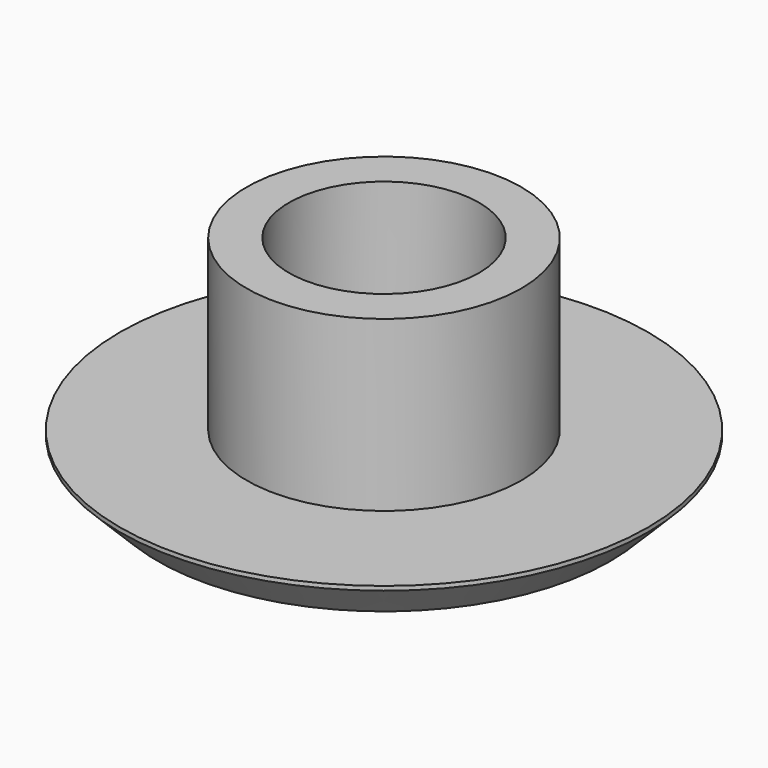
from build123d import *

# Parameters (mm, degrees)
F0_R     = 12.5
F0_R_2   = 6.5
F0_R_3   = 4.5
F1_DEPTH = 2
F2_DEPTH = 10
F3_SIZE  = 1.8


with BuildPart() as f1:
    # F0 (on Top) → F1 (new body)
    with BuildSketch(Plane.XY):
        Circle(F0_R)
        Circle(F0_R_2, mode=Mode.SUBTRACT)
        Circle(F0_R_2)
        Circle(F0_R_3, mode=Mode.SUBTRACT)
        Circle(F0_R_3)
    extrude(amount=F1_DEPTH)

    # F0 (on Top) → F2 (join)
    with BuildSketch(Plane.XY):
        Circle(F0_R_2)
        Circle(F0_R_3, mode=Mode.SUBTRACT)
    extrude(amount=F2_DEPTH)

    # F3
    f3_edges = [f1.edges().sort_by_distance(p)[0] for p in [
        (-12.5, 0, 0),
    ]]
    chamfer(f3_edges, length=F3_SIZE)


solid = f1.part
